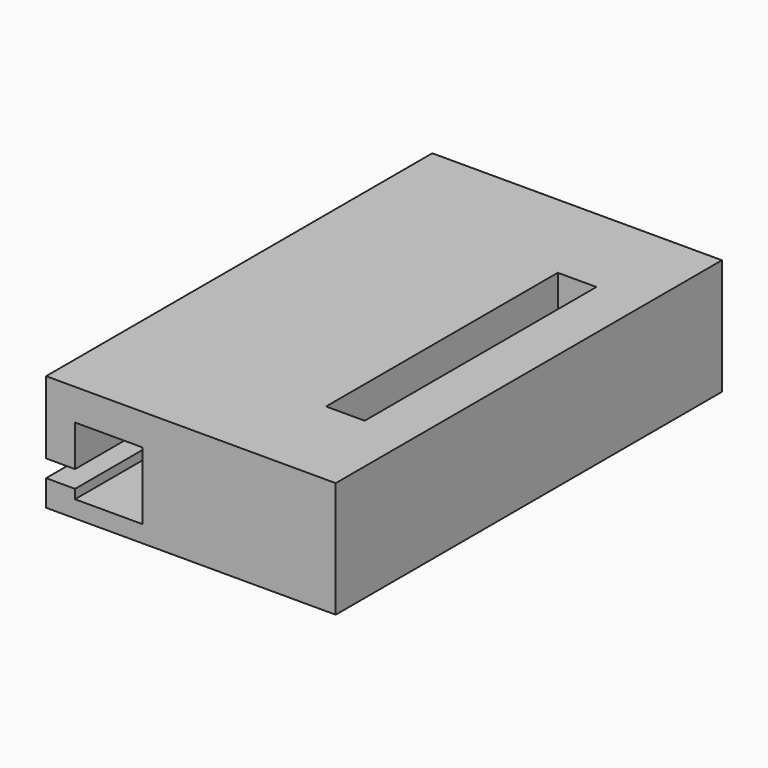
from build123d import *

# Parameters (mm, degrees)
F1_DEPTH = 50
F2_W     = 4
F2_H     = 30
F3_DEPTH = 25


with BuildPart() as f1:
    # F0 (on Front) → F1 (new body)
    with BuildSketch(Plane.XZ):
        Polygon((-10.624999, 12), (-40.624999, 12), (-40.624999, 4.5), (-37.624999, 4.5), (-37.624999, 8.751204), (-30.624999, 8.751204), (-30.624999, 1.751204), (-37.624999, 1.751204), (-37.624999, 2.7), (-40.624999, 2.7), (-40.624999, 0), (-10.624999, 0), align=None)
    extrude(amount=F1_DEPTH)

    # F2 (on face) → F3 (cut)
    with BuildSketch(Plane.XY.offset(12)):
        with Locations((-17.624999, -25)):
            Rectangle(F2_W, F2_H)
    extrude(amount=-F3_DEPTH, mode=Mode.SUBTRACT)


solid = f1.part
